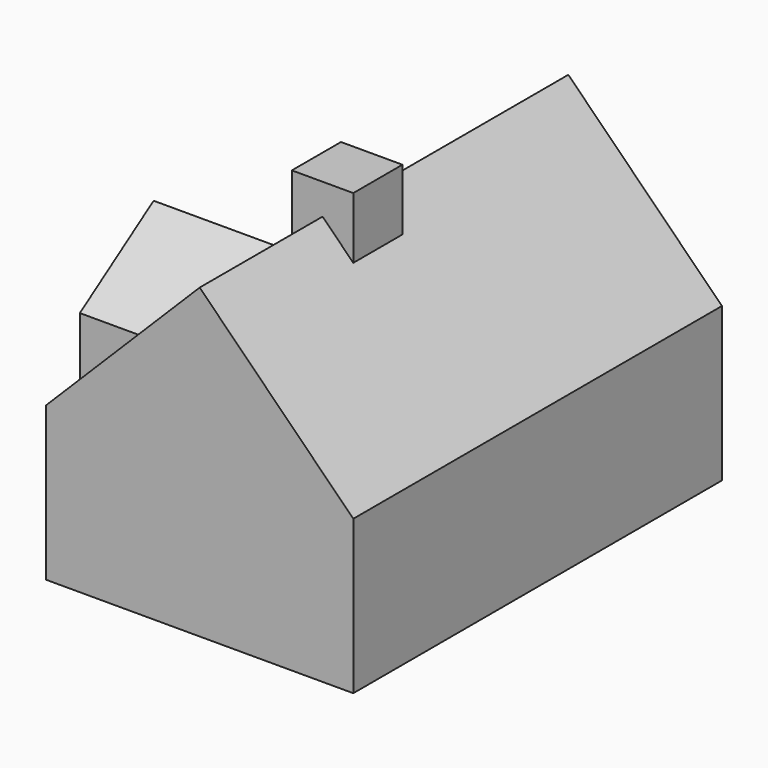
from build123d import *

# Parameters (mm, degrees)
F1_DEPTH      = 150
F3_DEPTH      = 25
F3_DEPTH_BACK = 25
F5_W          = 20
F5_H          = 20
F6_DEPTH      = 20


with BuildPart() as f1:
    # F0 (on Front) → F1 (new body)
    with BuildSketch(Plane.XZ):
        Polygon((0, 50), (0, 0), (100, 0), (100, 50), (50, 100), align=None)
    extrude(amount=F1_DEPTH)

    # F2 (on face) → F3 (join, two sides)
    with BuildSketch(Plane(origin=(0, 0, 0), x_dir=(0, -1, 0), z_dir=(-1, 0, 0))) as f3_sk:
        Polygon((45, 50), (45, 0), (105, 0), (105, 50), (75, 70), align=None)
    extrude(amount=F3_DEPTH)
    extrude(f3_sk.sketch, amount=-F3_DEPTH_BACK)

    # F5 (on offset) → F6 (join)
    with BuildSketch(Plane.XZ.offset(100)):
        with Locations((50, 100)):
            Rectangle(F5_W, F5_H)
    extrude(amount=-F6_DEPTH)


solid = f1.part
